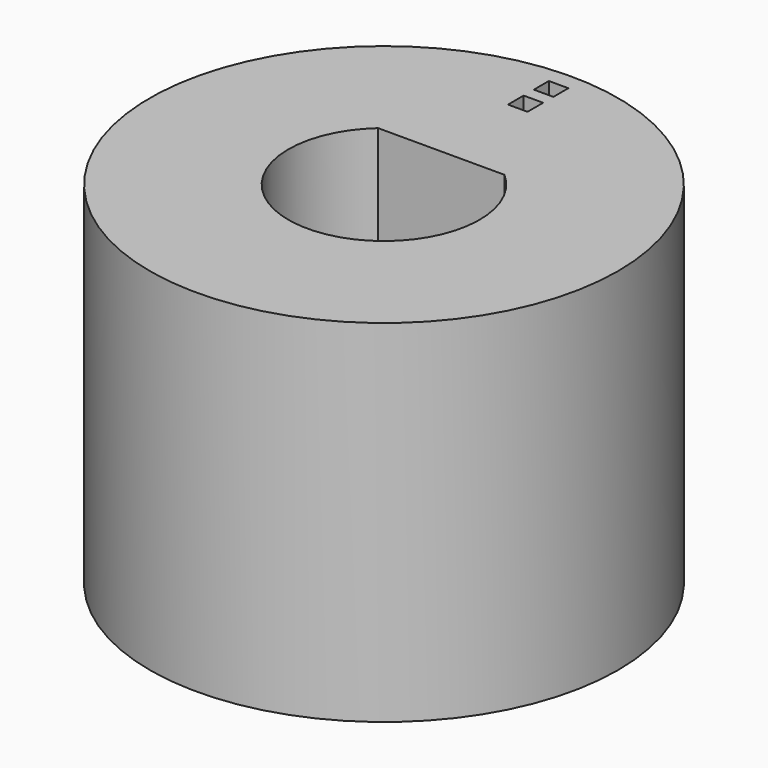
from build123d import *

# Parameters (mm, degrees)
F0_R     = 10
F1_DEPTH = 15
F2_W     = 0.833987
F2_H     = 0.801911
F2_H_2   = 0.833987
F3_DEPTH = 1


with BuildPart() as f1:
    # F0 (on Top) → F1 (new body)
    with BuildSketch(Plane.XY):
        Circle(F0_R)
        with BuildLine():
            ThreePointArc((2.698666, 3.06), (0, -4.08), (-2.698666, 3.06))
            Line((-2.698666, 3.06), (2.698666, 3.06))
        make_face(mode=Mode.SUBTRACT)
    extrude(amount=F1_DEPTH)

    # F2 (on face) → F3 (cut)
    with BuildSketch(Plane.XY.offset(15)):
        with Locations((0.038567, 8.873974)):
            Rectangle(F2_W, F2_H)
        with Locations((0.038567, 7.510726)):
            Rectangle(F2_W, F2_H_2)
    extrude(amount=-F3_DEPTH, mode=Mode.SUBTRACT)


solid = f1.part
